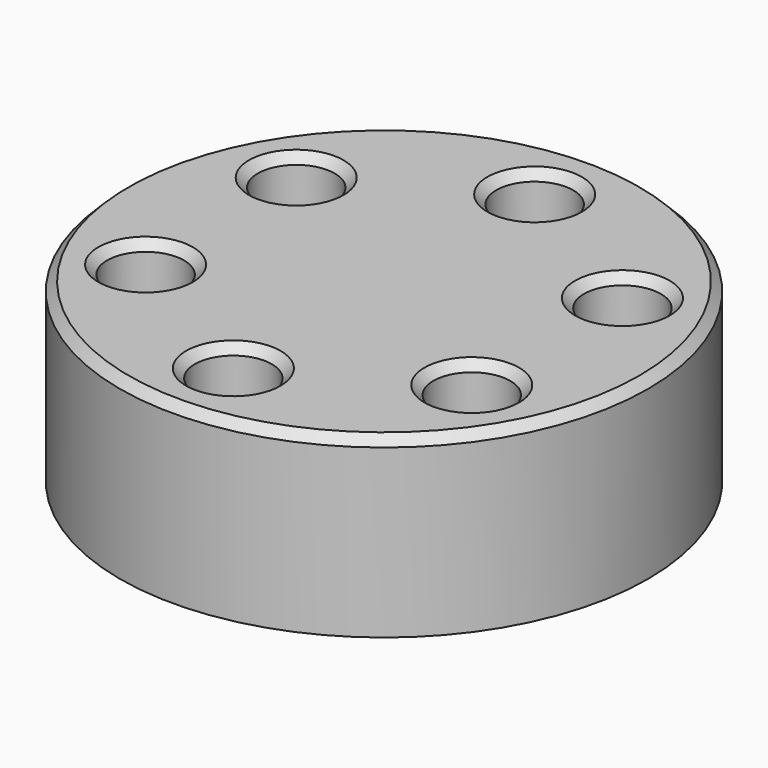
from build123d import *

# Parameters (mm, degrees)
F0_R     = 38.1
F1_DEPTH = 25.4
F2_R     = 5.551213
F3_DEPTH = 19.05
F4_SIZE  = 1.27


with BuildPart() as f1:
    # F0 (on Top) → F1 (new body)
    with BuildSketch(Plane.XY):
        Circle(F0_R)
    extrude(amount=F1_DEPTH)

    # F2 (on face) → F3 (cut)
    with BuildSketch(Plane.XY.offset(25.4)):
        with Locations((0, 27.166931)):
            Circle(F2_R)
        with Locations((-23.527252, 13.583465)):
            Circle(F2_R)
        with Locations((-23.527252, -13.583465)):
            Circle(F2_R)
        with Locations((0, -27.166931)):
            Circle(F2_R)
        with Locations((23.527252, -13.583465)):
            Circle(F2_R)
        with Locations((23.527252, 13.583465)):
            Circle(F2_R)
    extrude(amount=-F3_DEPTH, mode=Mode.SUBTRACT)

    # F4
    f4_edges = [f1.edges().sort_by_distance(p)[0] for p in [
        (-5.551213, 27.166931, 25.4),
        (-38.1, 0, 25.4),
        (-29.078465, -13.583465, 25.4),
        (-5.551213, -27.166931, 25.4),
        (17.976039, -13.583465, 25.4),
        (-29.078465, 13.583465, 25.4),
        (17.976039, 13.583465, 25.4),
    ]]
    chamfer(f4_edges, length=F4_SIZE)


solid = f1.part
